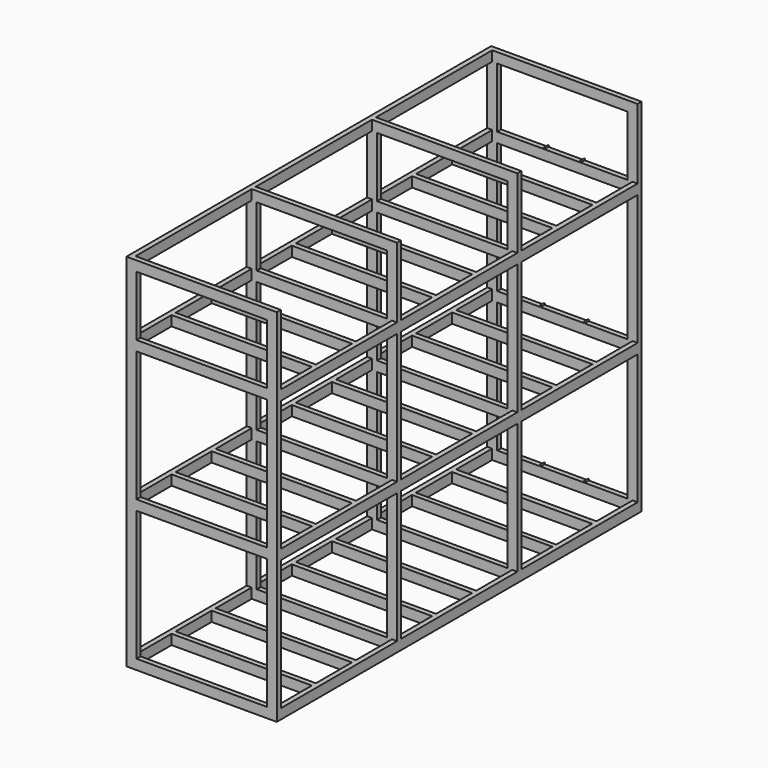
from build123d import *

# Parameters (mm, degrees)
F1_W      = 1500
F1_H      = 3600
F2_DEPTH  = 4550
F3_W      = 1300
F3_H      = 1300
F3_H_2    = 600
F4_DEPTH  = 20000
F5_W      = 1450
F5_H      = 4000
F5_H_2    = 4290.098786
F5_H_3    = 4287.803769
F6_DEPTH  = 2000
F7_W      = 50
F7_H      = 100
F8_DEPTH  = 4550
F10_W     = 50
F10_H     = 100
F10_W_2   = 50.206947
F10_W_3   = 49.793053
F10_W_4   = 46.819377
F10_W_5   = 53.180623
F11_DEPTH = 1500
F9_R      = 7.5
F12_DEPTH = 50


with BuildPart() as f2:
    # F1 (on Front) → F2 (new body)
    with BuildSketch(Plane.XZ):
        with Locations((0, 1800)):
            Rectangle(F1_W, F1_H)
    extrude(amount=F2_DEPTH)

    # F3 (on face) → F4 (cut)
    with BuildSketch(Plane.XZ.offset(4550)):
        with Locations((0, 750)):
            Rectangle(F3_W, F3_H)
        with Locations((0, 2150)):
            Rectangle(F3_W, F3_H)
        with Locations((0, 3200)):
            Rectangle(F3_W, F3_H_2)
    extrude(amount=-F4_DEPTH, mode=Mode.SUBTRACT)

    # F5 (on face) → F6 (cut)
    with BuildSketch(Plane.YZ.offset(750)):
        with Locations((-775, 2000)):
            Rectangle(F5_W, F5_H)
        with Locations((-2275, 1869.349897)):
            Rectangle(F5_W, F5_H_2)
        with Locations((-3775, 1868.202388)):
            Rectangle(F5_W, F5_H_3)
    extrude(amount=-F6_DEPTH, mode=Mode.SUBTRACT)

    # F7 (on face) → F8 (join)
    with BuildSketch(Plane.XZ.offset(4550)):
        with Locations((725, 1450)):
            Rectangle(F7_W, F7_H)
        with Locations((-725, 3550)):
            Rectangle(F7_W, F7_H)
        with Locations((-725, 2850)):
            Rectangle(F7_W, F7_H)
        with Locations((-725, 1450)):
            Rectangle(F7_W, F7_H)
        with Locations((-725, 50)):
            Rectangle(F7_W, F7_H)
        with Locations((725, 50)):
            Rectangle(F7_W, F7_H)
        with Locations((725, 2850)):
            Rectangle(F7_W, F7_H)
    extrude(amount=-F8_DEPTH)

    # F10 (on face) → F11 (join)
    with BuildSketch(Plane.YZ.offset(750)):
        with Locations((-4025, 2850)):
            Rectangle(F10_W, F10_H)
        with Locations((-3525, 2850)):
            Rectangle(F10_W, F10_H)
        with Locations((-2525, 2850)):
            Rectangle(F10_W, F10_H)
        with Locations((-2025, 2850)):
            Rectangle(F10_W, F10_H)
        with Locations((-1025, 2850)):
            Rectangle(F10_W, F10_H)
        with Locations((-525, 2850)):
            Rectangle(F10_W, F10_H)
        with Locations((-4025, 1450)):
            Rectangle(F10_W, F10_H)
        with Locations((-3525, 1450)):
            Rectangle(F10_W, F10_H)
        with Locations((-2525, 1450)):
            Rectangle(F10_W, F10_H)
        with Locations((-2025, 1450)):
            Rectangle(F10_W, F10_H)
        with Locations((-1025, 1450)):
            Rectangle(F10_W, F10_H)
        with Locations((-525, 1450)):
            Rectangle(F10_W, F10_H)
        with Locations((-4025, 50)):
            Rectangle(F10_W, F10_H)
        with Locations((-3525, 50)):
            Rectangle(F10_W, F10_H)
        with Locations((-2524.896526, 50)):
            Rectangle(F10_W_2, F10_H)
        with Locations((-2024.896526, 50)):
            Rectangle(F10_W_3, F10_H)
        with Locations((-1026.590312, 50)):
            Rectangle(F10_W_4, F10_H)
        with Locations((-526.590311, 50)):
            Rectangle(F10_W_5, F10_H)
    extrude(amount=-F11_DEPTH)

    # F9 (on face) → F12 (join)
    with BuildSketch(Plane(origin=(0, 0, 0), x_dir=(-1, 0, 0), z_dir=(0, 1, 0))):
        with Locations((-180, 2907.5)):
            Circle(F9_R)
        with Locations((220, 1507.5)):
            Circle(F9_R)
        with Locations((-220, 1507.5)):
            Circle(F9_R)
        with Locations((220, 107.5)):
            Circle(F9_R)
        with Locations((-220, 107.5)):
            Circle(F9_R)
        with Locations((180, 2907.5)):
            Circle(F9_R)
    extrude(amount=-F12_DEPTH)


solid = f2.part
